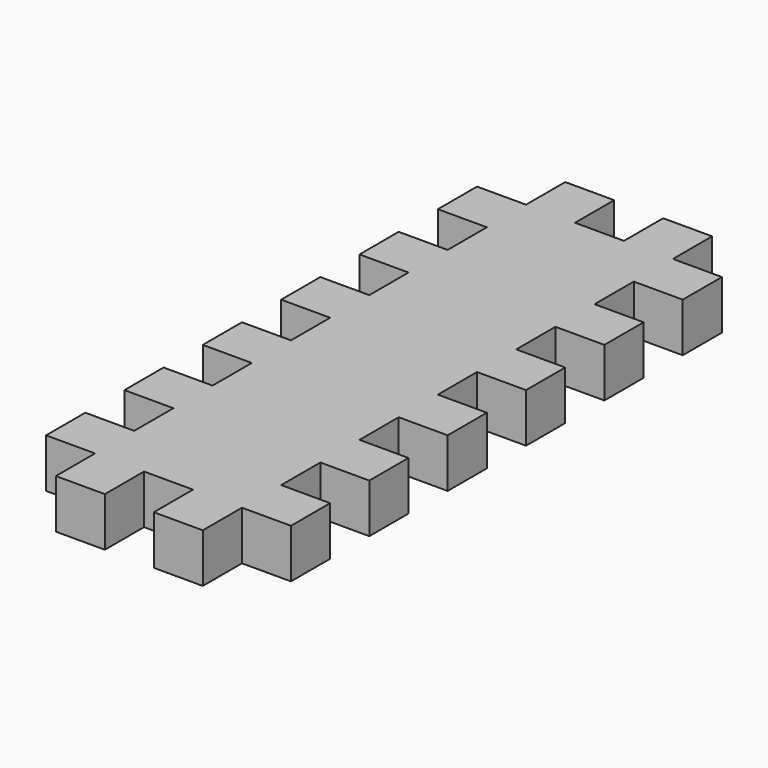
from build123d import *

# Parameters (mm, degrees)
F0_W     = 95.25
F0_H     = 247.65
F1_DEPTH = 19.05
F3_DEPTH = 19.051


with BuildPart() as f1:
    # F0 (on Top) → F1 (new body)
    with BuildSketch(Plane.XY):
        Rectangle(F0_W, F0_H)
    extrude(amount=F1_DEPTH)

    # F2 (on face) → F3 (intersect, through all)
    with BuildSketch(Plane.XY.offset(19.05)):
        Polygon((-9.525, 123.825), (-28.575, 123.825), (-28.575, 104.775), (-47.625, 104.775), (-47.625, 85.725), (-28.575, 85.725), (-28.575, 66.675), (-47.625, 66.675), (-47.625, 47.625), (-28.575, 47.625), (-28.575, 28.575), (-47.625, 28.575), (-47.625, 9.525), (-28.575, 9.525), (-28.575, -9.525), (-47.625, -9.525), (-47.625, -28.575), (-28.575, -28.575), (-28.575, -47.625), (-47.625, -47.625), (-47.625, -66.675), (-28.575, -66.675), (-28.575, -85.725), (-47.625, -85.725), (-47.625, -104.775), (-28.575, -104.775), (-28.575, -123.825), (-9.525, -123.825), (-9.525, -104.775), (9.525, -104.775), (9.525, -123.825), (28.575, -123.825), (28.575, -104.775), (47.625, -104.775), (47.625, -85.725), (28.575, -85.725), (28.575, -66.675), (47.625, -66.675), (47.625, -47.625), (28.575, -47.625), (28.575, -28.575), (47.625, -28.575), (47.625, -9.525), (28.575, -9.525), (28.575, 9.525), (47.625, 9.525), (47.625, 28.575), (28.575, 28.575), (28.575, 47.625), (47.625, 47.625), (47.625, 66.675), (28.575, 66.675), (28.575, 85.725), (47.625, 85.725), (47.625, 104.775), (28.575, 104.775), (28.575, 123.825), (9.525, 123.825), (9.525, 104.775), (-9.525, 104.775), align=None)
    extrude(amount=-F3_DEPTH, mode=Mode.INTERSECT)


solid = f1.part
